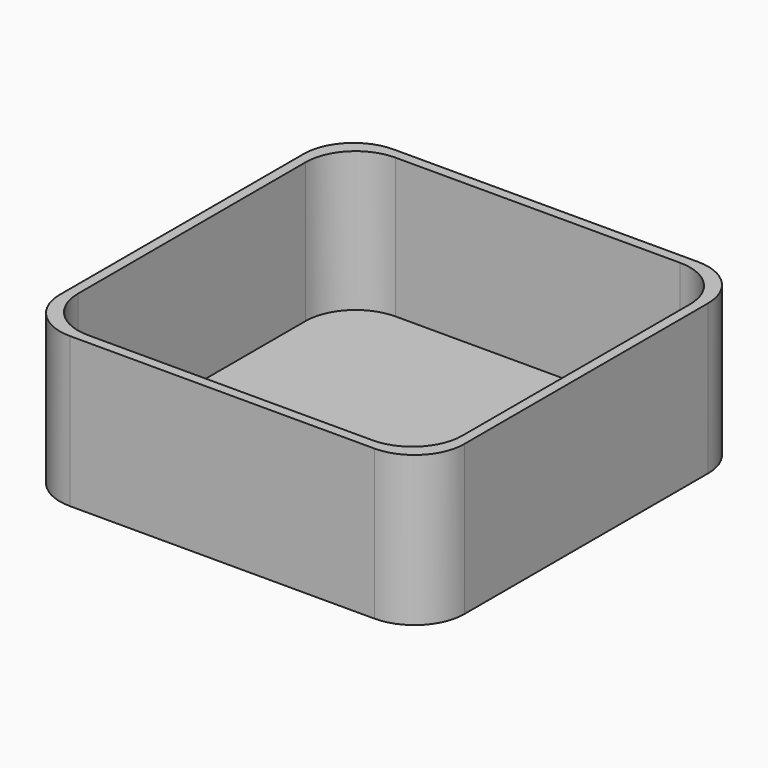
from build123d import *

# Parameters (mm, degrees)
F0_W     = 38.5
F0_H     = 38.5
F1_DEPTH = 1
F0_W_2   = 40.5
F0_H_2   = 40.5
F2_DEPTH = 15
F3_R     = 5


with BuildPart() as f1:
    # F0 (on Top) → F1 (new body)
    with BuildSketch(Plane.XY):
        Rectangle(F0_W, F0_H)
    extrude(amount=F1_DEPTH)

    # F0 (on Top) → F2 (join)
    with BuildSketch(Plane.XY):
        Rectangle(F0_W_2, F0_H_2)
        Rectangle(F0_W, F0_H, mode=Mode.SUBTRACT)
    extrude(amount=F2_DEPTH)

    # F3
    f3_edges = [f1.edges().sort_by_distance(p)[0] for p in [
        (20.25, -20.25, 7.5),
        (19.25, -19.25, 8),
        (-19.25, -19.25, 8),
        (-19.25, 19.25, 8),
        (19.25, 19.25, 8),
        (-20.25, -20.25, 7.5),
        (-20.25, 20.25, 7.5),
        (20.25, 20.25, 7.5),
    ]]
    fillet(f3_edges, radius=F3_R)


solid = f1.part
